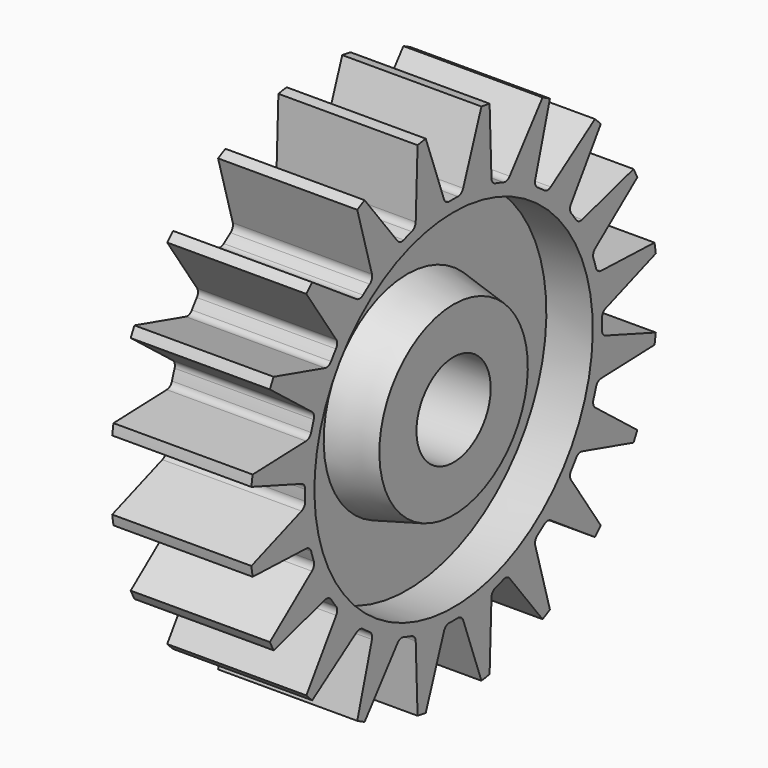
from build123d import *

# Parameters (mm, degrees)
F3_DEPTH = 3
F4_COUNT = 20


with BuildPart() as f1:
    # F0 (on Front) → F1 (revolve)
    with BuildSketch(Plane.XZ):
        Polygon((3, 11), (0, 11), (-3, 11), (-3, 7.5), (-1, 7.5), (-1, 4.5), (-3, 4), (-3, 2), (0, 2), (3, 2), (3, 4), (1, 4.5), (1, 7.5), (3, 7.5), align=None)
    revolve(axis=Axis((-1.5, 0, 0), (1, 0, 0)))

    # F2 (on Right) → F3 (cut, symmetric)
    with BuildSketch(Plane.YZ):
        with BuildLine():
            ThreePointArc((-0.2257569502, 7.996813978), (0, 8), (0.2257569502, 7.996813978))
            ThreePointArc((0.2257569502, 7.996813978), (0.4028108647, 8.0485451993), (0.516130622, 8.1940884592))
            Line((0.516130622, 8.1940884592), (1.5, 10.8972473589))
            ThreePointArc((1.5, 10.8972473589), (0, 11), (-1.5, 10.8972473589))
            Line((-1.5, 10.8972473589), (-0.516130622, 8.1940884592))
            ThreePointArc((-0.516130622, 8.1940884592), (-0.4028108647, 8.0485451993), (-0.2257569502, 7.996813978))
        make_face()
    f3 = extrude(amount=F3_DEPTH, both=True, mode=Mode.SUBTRACT)

    # F4: F3 ×20 about axis
    f4_axis = Axis((3, 0, 0), (-1, 0, 0))
    for i in range(1, F4_COUNT):
        add(f3.rotate(f4_axis, i * 360 / F4_COUNT), mode=Mode.SUBTRACT)


solid = f1.part
